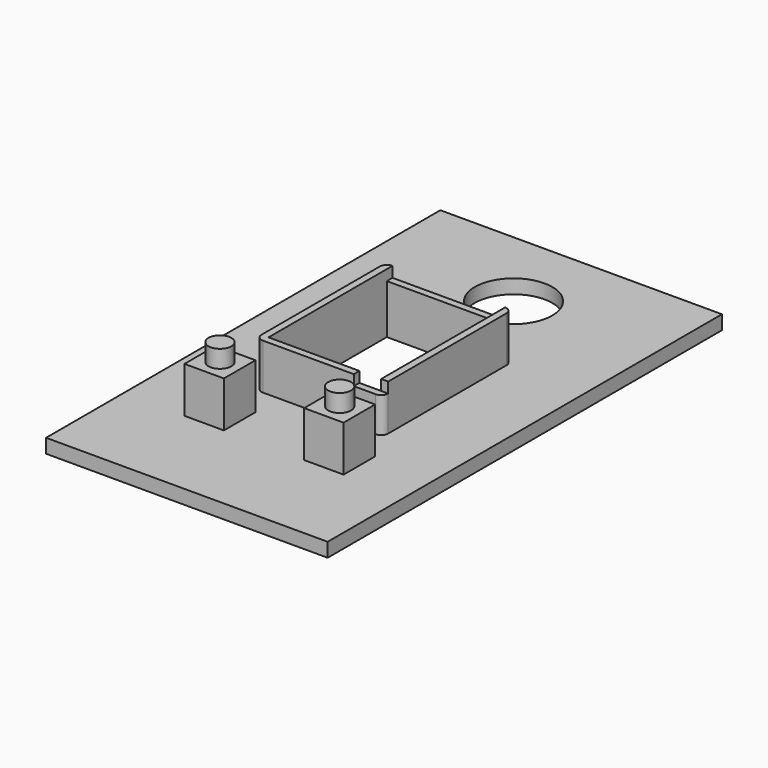
from build123d import *

# Parameters (mm, degrees)
SKETCH_W      = 40
SKETCH_H      = 70
SKETCH_R      = 5.5
SKETCH_W_2    = 16
SKETCH_H_2    = 21
PAD_DEPTH     = 2
SKETCH001_W   = 5.6
SKETCH001_H   = 5.6
SKETCH001_W_2 = 16
SKETCH001_H_2 = 21
PAD001_DEPTH  = 6.5
SKETCH002_W   = 16
SKETCH002_H   = 1
SKETCH002_W_2 = 4.092667
POCKET_DEPTH  = 1.5
SKETCH003_R   = 1.625
PAD002_DEPTH  = 2.5


with BuildPart() as part:
    # Sketch → Pad (new body)
    with BuildSketch(Plane.XY):
        Rectangle(SKETCH_W, SKETCH_H)
        with Locations((0, 23)):
            Circle(SKETCH_R, mode=Mode.SUBTRACT)
        Rectangle(SKETCH_W_2, SKETCH_H_2, mode=Mode.SUBTRACT)
    extrude(amount=PAD_DEPTH)

    # Sketch001 (on Face11 of Pad) → Pad001 (join)
    with BuildSketch(Plane.XY.offset(2)):
        with Locations((-8.5, -18.5)):
            Rectangle(SKETCH001_W, SKETCH001_H)
        with Locations((8.5, -18.5)):
            Rectangle(SKETCH001_W, SKETCH001_H)
        with BuildLine():
            Line((-8, -11.5), (8, -11.5))
            ThreePointArc((9, -10.5), (8.7071067812, -11.2071067812), (8, -11.5))
            Line((9, -10.5), (9, 10.5))
            ThreePointArc((8, 11.5), (8.7071067812, 11.2071067812), (9, 10.5))
            Line((8, 11.5), (-8, 11.5))
            ThreePointArc((-9, 10.5), (-8.7071067812, 11.2071067812), (-8, 11.5))
            Line((-9, 10.5), (-9, -10.5))
            ThreePointArc((-8, -11.5), (-8.7071067812, -11.2071067812), (-9, -10.5))
        make_face()
        Rectangle(SKETCH001_W_2, SKETCH001_H_2, mode=Mode.SUBTRACT)
    extrude(amount=PAD001_DEPTH)

    # Sketch002 (on Face34 of Pad001) → Pocket (cut)
    with BuildSketch(Plane.XY.offset(8.5)):
        with Locations((0, 11)):
            Rectangle(SKETCH002_W, SKETCH002_H)
        with Locations((6.9536665, -11)):
            Rectangle(SKETCH002_W_2, SKETCH002_H)
    extrude(amount=-POCKET_DEPTH, mode=Mode.SUBTRACT)

    # Sketch003 (on Face32 of Pocket) → Pad002 (join)
    with BuildSketch(Plane.XY.offset(8.5)):
        with Locations((-8.5, -18.5)):
            Circle(SKETCH003_R)
        with Locations((8.5, -18.5)):
            Circle(SKETCH003_R)
    extrude(amount=PAD002_DEPTH)


solid = part.part
